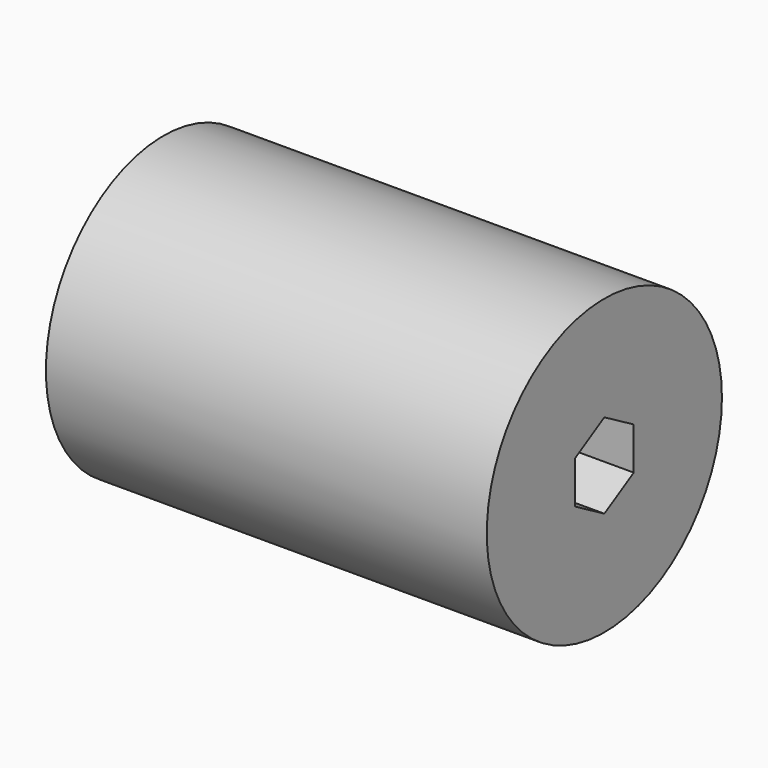
from build123d import *

# Parameters (mm, degrees)
F0_R     = 25.4
F1_DEPTH = 76.2


with BuildPart() as f1:
    # F0 (on Right) → F1 (new body)
    with BuildSketch(Plane.YZ):
        Circle(F0_R)
        Polygon((0, 7.332348), (6.35, 3.666174), (6.35, -3.666174), (0, -7.332348), (-6.35, -3.666174), (-6.35, 3.666174), align=None, mode=Mode.SUBTRACT)
    extrude(amount=F1_DEPTH)


solid = f1.part
